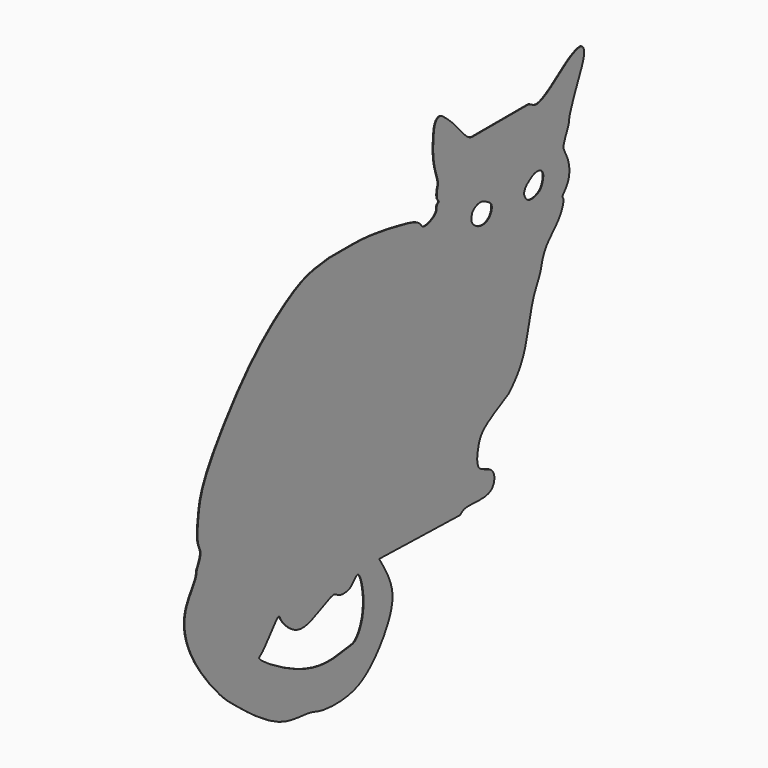
from build123d import *

# Parameters (mm, degrees)
F1_DEPTH = 0.1
F2_SCALE = 5


with BuildPart() as f1:
    # F0 (on Right) → F1 (new body)
    with BuildSketch(Plane.YZ):
        with BuildLine():
            add(Edge.make_bspline(
                [(28.6917779595, 28.0161239207), (29.2493887795, 28.0161239207), (30.4478164121, 26.2668569335), (35.935339558, 30.5966765501), (37.8819629497, 31.689147801), (39.7322055782, 32.2321044415), (40.3275441688, 30.5684400154), (39.012010146, 27.7250743665), (36.9136855847, 23.0001826192), (37.0967391536, 21.8365800893), (35.609008143, 19.2513035136), (36.2328844034, 18.2286859416), (37.2615399309, 16.1276005891), (36.9987092535, 13.4492360903), (35.4708439662, 12.1996810538), (36.1034969625, 11.6547815124), (35.2612649074, 9.103970493), (32.4238934723, 6.8617096179), (31.5031339066, 4.5264269695), (31.2906873189, 2.9325059991), (29.3167196031, -0.036302802), (28.3812587673, -7.5731360635), (25.9246558463, -10.4353285899), (24.7460920364, -11.5283243358)],
                knots=[0, 0, 0, 0, 0.0401720328, 0.1137274725, 0.1617087776, 0.1973673452, 0.2298276332, 0.2835211577, 0.3497954016, 0.3831472205, 0.431121249, 0.4620733892, 0.506467837, 0.5548339191, 0.5920770806, 0.6130204438, 0.6582547955, 0.7157358577, 0.7611503368, 0.7970898942, 0.8513311751, 0.9325220178, 1, 1, 1, 1], degree=3))
            Line((28.6917779595, 28.0161239207), (17.5924319774, 28.0161239207))
            add(Edge.make_bspline(
                [(17.5924319774, 28.0161239207), (17.0630180302, 28.0161239207), (15.9077237746, 28.761201225), (13.9015439749, 31.4274634284), (11.8211639391, 33.1429652866), (11.0772675756, 33.6842940194), (10.3089396054, 33.502093786), (9.8140991865, 32.665457488), (9.6216723768, 30.9658922079), (9.4760863448, 27.2368260277), (10.8044335982, 24.2895333588), (10.3829939244, 23.5909433353), (10.2131202604, 21.993687988), (10.9566281798, 21.5674685991), (10.1143820413, 21.1945429621), (10.6208363272, 19.9856879515), (7.4215194926, 18.7430389988), (7.0085018466, 20.5281582023), (1.5028471623, 21.6845736814), (-3.6378383217, 22.5280486047), (-6.5733250231, 22.5280486047)],
                knots=[0, 0, 0, 0, 0.0523227403, 0.127186894, 0.1932215849, 0.2295739296, 0.2619139612, 0.2990824814, 0.3508918912, 0.4302623204, 0.4997443088, 0.5350569992, 0.5839020383, 0.6134819771, 0.6433624156, 0.6826532242, 0.7475102253, 0.7920223262, 0.8821293164, 1, 1, 1, 1], degree=3))
            Line((-6.5733250231, 22.5280486047), (-11.391742155, 22.5280486047))
            add(Edge.make_bspline(
                [(-11.391742155, 22.5280486047), (-12.6801415597, 22.391470413), (-15.2615421253, 22.1178262155), (-18.9339576142, 20.6553033099), (-26.0430358219, 15.7339590817), (-32.7721062796, 7.5571195871), (-37.1954266202, 0.5426965633), (-37.8361990085, -3.5254570282), (-38.1455316821, -7.2742010063), (-37.0061580743, -8.8066279925), (-37.7184863054, -10.2033488036), (-38.1021015346, -10.9555348754)],
                knots=[0, 0, 0, 0, 0.0989638946, 0.1982812569, 0.3460706502, 0.5155299636, 0.6599398914, 0.7630667957, 0.8585085634, 0.9238016023, 1, 1, 1, 1], degree=3))
            add(Edge.make_bspline(
                [(-38.1021015346, -10.9555348754), (-38.136095458, -11.3443441951), (-38.2316799388, -12.43760244), (-41.5324994269, -16.2548586419), (-39.37118514, -23.8655193068), (-32.8062102779, -31.4353956395), (-30.4377298876, -33.2390861574), (-21.6346561654, -40.4391413794), (-15.5603447219, -40.1645299012), (-13.0699448259, -41.3488749548), (-8.3450123694, -41.5592635084), (-3.4847967264, -40.2744655295), (1.5614250972, -33.3960967779), (1.4606019874, -28.7789039614), (-0.3551275761, -25.8580499104), (-1.2999942992, -24.3381001055)],
                knots=[0, 0, 0, 0, 0.0386719071, 0.108738086, 0.2017202625, 0.3058263167, 0.3675534039, 0.4780333757, 0.55926501, 0.6133371894, 0.684045967, 0.7593348691, 0.8542134236, 0.9241357923, 1, 1, 1, 1], degree=3))
            Line((-1.2999942992, -24.3381001055), (15.0305684656, -24.7481316328))
            add(Edge.make_bspline(
                [(15.0305684656, -24.7481316328), (15.3369422276, -24.4865647716), (16.2162061619, -23.7358924361), (21.9967596323, -24.9659505867), (22.2096322612, -20.3975487563), (18.0323995789, -20.259148506), (18.6809221939, -16.2248928611), (19.5744048348, -14.2370199725), (22.7672123906, -12.5647719115), (24.7460920364, -11.5283243358)],
                knots=[0, 0, 0, 0, 0.0955802371, 0.2743063074, 0.4049202907, 0.5458939437, 0.6886152586, 0.8070059294, 1, 1, 1, 1], degree=3))
        make_face()
        with BuildLine():
            add(Edge.make_bspline(
                [(-5.6390985847, -24.8087439686), (-4.9664070708, -24.9519706313), (-3.7149465905, -30.3398743056), (-5.924470776, -34.2854939636), (-7.47965419, -34.2820670899), (-11.1828129297, -35.0706361178), (-17.5776258983, -34.1161003894), (-26.4401413099, -28.5260122591), (-24.7183724619, -28.3274345286), (-21.5748598564, -23.5053845462), (-21.2845468957, -24.9968413496), (-18.7996210593, -27.7613222573), (-15.4180231068, -28.1912698271), (-10.4861259495, -25.1292675562), (-9.7218252012, -26.2991866245), (-6.9221434153, -26.6190656519), (-6.0455055238, -24.7222135035), (-5.6390985847, -24.8087439686)],
                knots=[0, 0, 0, 0, 0.0854467612, 0.1629540621, 0.2048039424, 0.2728341416, 0.3741091885, 0.4840389119, 0.5166068502, 0.600129923, 0.6295296049, 0.6990980286, 0.7684105234, 0.8524825371, 0.8902710483, 0.9483772934, 1, 1, 1, 1], degree=3))
        make_face(mode=Mode.SUBTRACT)
        with BuildLine():
            add(Edge.make_bspline(
                [(17.3717532307, 16.0044897348), (17.3717532307, 16.2812601775), (17.3717532307, 16.5580306202), (17.3717532307, 16.8348010629)],
                knots=[0, 0, 0, 0, 0.8303113282, 0.8303113282, 0.8303113282, 0.8303113282], degree=3))
            add(Edge.make_bspline(
                [(17.3717532307, 16.8348010629), (17.3937252165, 17.0084403482), (17.4543840663, 17.4885703286), (19.1208227964, 18.4185598492), (20.6096829979, 17.4645179223), (21.534806799, 16.949104748), (21.3906163922, 15.4076155827), (19.8270422027, 14.3206853539), (18.3316801261, 14.8755066067), (17.8298540413, 15.3459683061)],
                knots=[0, 0, 0, 0, 0.093042778, 0.2495215666, 0.4081731317, 0.5274949238, 0.6650911728, 0.823462094, 1, 1, 1, 1], degree=3))
            add(Edge.make_bspline(
                [(17.8298540413, 15.3459683061), (17.6771537711, 15.4700378577), (17.4290165305, 15.7468076795), (17.3717532307, 16.0044897348)],
                knots=[0, 0, 0, 0, 0.8021887713, 0.8021887713, 0.8021887713, 0.8021887713], degree=3))
        make_face(mode=Mode.SUBTRACT)
        with BuildLine():
            add(Edge.make_bspline(
                [(27.993997559, 15.4318623245), (28.1017846195, 15.0999891252), (28.7056638501, 14.0732737977), (30.7511347475, 14.4600840719), (31.6516795287, 15.345442417), (32.1069937157, 17.5696595435), (30.1119174482, 17.982468042), (29.0804910323, 17.1245041501), (28.4264705026, 16.7959161301), (27.9291717322, 16.004387946), (27.9224987155, 15.6520051673), (27.993997559, 15.4318623245)],
                knots=[0, 0, 0, 0, 0.1154499759, 0.2515829925, 0.3667807056, 0.5028369251, 0.6280324677, 0.7431315703, 0.830123772, 0.9234180827, 1, 1, 1, 1], degree=3))
        make_face(mode=Mode.SUBTRACT)
    extrude(amount=F1_DEPTH)


with BuildPart() as f1_1:
    # F2: moved
    add(f1.part.scale(F2_SCALE))


solid = f1_1.part
